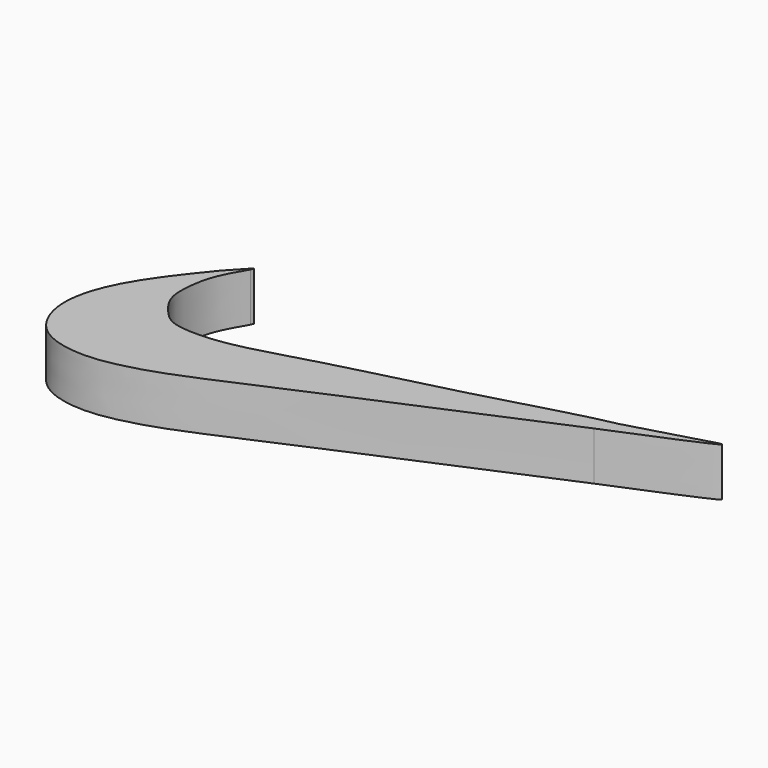
from build123d import *

# Parameters (mm, degrees)
F1_DEPTH = 7


with BuildPart() as f1:
    # F0 (on Top) → F1 (new body)
    with BuildSketch(Plane.XY):
        with BuildLine():
            add(Edge.make_bspline(
                [(-24.5399442118, 7.9858221547), (-24.881287558, 7.4063630489), (-25.6391011145, 6.1199106522), (-27.0473109199, 3.2964412095), (-27.5264046021, -0.4194481869), (-27.366247024, -3.4340737524), (-24.8624006016, -6.5646634632), (-22.7421111359, -8.1179139399), (-15.8276652271, -8.2175880232), (-7.2515312987, -5.5169695186), (-1.6106799233, -4.0612830315), (1.1645006399, -3.345115812)],
                knots=[0, 0, 0, 0, 0.0767905302, 0.1704820247, 0.2722923582, 0.3636560745, 0.4657956059, 0.5492354102, 0.6831079087, 0.8440957377, 1, 1, 1, 1], degree=3))
            add(Edge.make_bspline(
                [(-26.9939754706, 5.6983039216), (-26.0780812147, 6.681358633), (-24.8507912945, 7.9986429487), (-24.2992644125, 8.5883270318), (-24.4573579835, 8.1925640811), (-24.5399442118, 7.9858221547)],
                knots=[0, 0, 0, 0, 0.5841612292, 0.7827707005, 1, 1, 1, 1], degree=3))
            add(Edge.make_bspline(
                [(29.8455204267, 1.8753216104), (19.3854444544, -2.568447157), (1.3768280776, -10.219072947), (-14.8236830034, -17.4331393662), (-20.5349523375, -19.2496609389), (-26.5330850358, -20.478136543), (-33.8734034621, -18.8431389132), (-36.8983915675, -11.4999952957), (-33.9567302154, -2.8455304384), (-29.4097303562, 2.7339873036), (-26.9939754706, 5.6983039216)],
                knots=[0, 0, 0, 0, 0.2176113285, 0.3746510966, 0.4655910353, 0.5587419795, 0.6590621446, 0.759197529, 0.8720651498, 1, 1, 1, 1], degree=3))
            add(Edge.make_bspline(
                [(31.3241272617, 4.4956945316), (34.6799318984, 5.421655008), (39.9193855866, 6.8673670081), (43.1679568454, 7.9305612599), (44.1864492536, 7.7914559463), (36.6477150599, 4.6814646235), (29.8455204267, 1.8753216104)],
                knots=[0, 0, 0, 0, 0.3389641939, 0.5292284231, 0.5752231327, 1, 1, 1, 1], degree=3))
            add(Edge.make_bspline(
                [(1.1645006399, -3.345115812), (6.4722997511, -2.0136298564), (16.1058202181, 0.4029833078), (26.4940345692, 3.4715266314), (29.9475995962, 4.2038170173), (31.3241272617, 4.4956945316)],
                knots=[0, 0, 0, 0, 0.4246126437, 0.770661155, 1, 1, 1, 1], degree=3))
        make_face()
    extrude(amount=F1_DEPTH)


solid = f1.part
